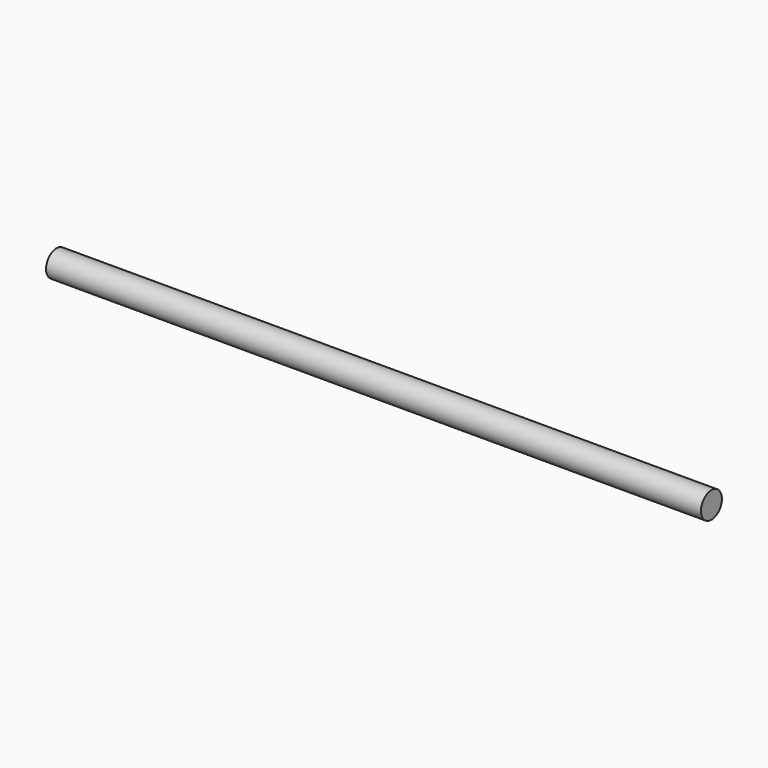
from build123d import *

# Parameters (mm, degrees)
F0_R      = 1.3
F1_DEPTH  = 32.5
F1_FACE_R = 1.3
F2_DEPTH  = 32.5


with BuildPart() as f1:
    # F0 (on Right) → F1 (new body)
    with BuildSketch(Plane.YZ):
        Circle(F0_R)
    extrude(amount=F1_DEPTH)

    # F1_face (on face) → F2 (join)
    with BuildSketch(Plane(origin=(0, 0, 0), x_dir=(0, 1, 0), z_dir=(-1, 0, 0))):
        Circle(F1_FACE_R)
    extrude(amount=F2_DEPTH)


solid = f1.part
